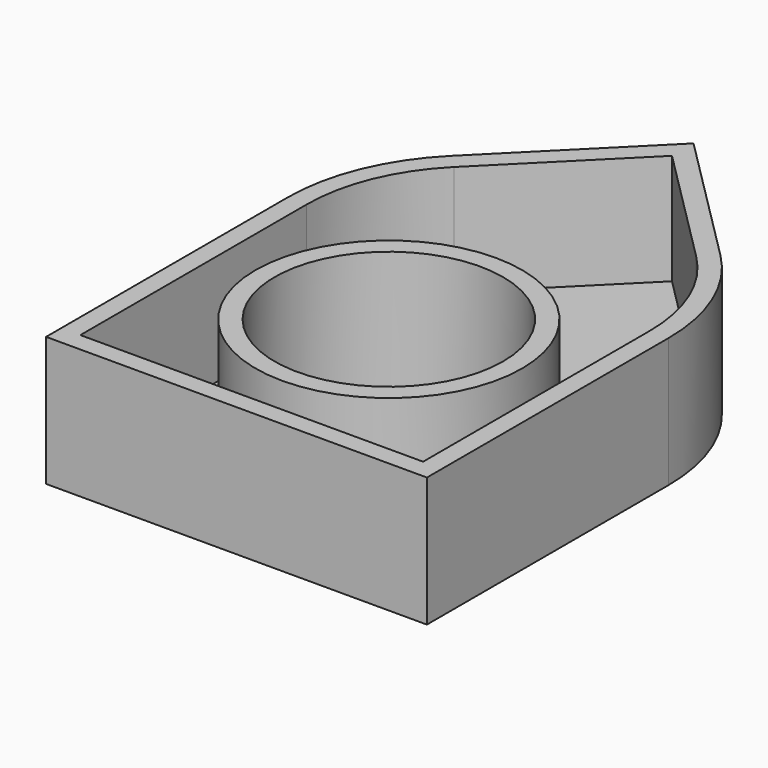
from build123d import *

# Parameters (mm, degrees)
F0_W     = 100
F0_H     = 100
F0_R     = 30
F1_DEPTH = 34
F2_R     = 50
F3_T     = -5


with BuildPart() as f1:
    # F0 (on Top) → F1 (new body)
    with BuildSketch(Plane.XY):
        Polygon((0, 100), (-50, 50), (50, 50), align=None)
        Rectangle(F0_W, F0_H)
        Circle(F0_R, mode=Mode.SUBTRACT)
    extrude(amount=F1_DEPTH)

    # F2
    f2_edges = [f1.edges().sort_by_distance(p)[0] for p in [
        (-50, 50, 17),
        (50, 50, 17),
    ]]
    fillet(f2_edges, radius=F2_R)

    # F3
    f3_openings = [f1.faces().sort_by_distance(p)[0] for p in [
        (-16.402915, 81.047576, 34),
    ]]
    offset(amount=F3_T, openings=f3_openings)


solid = f1.part
